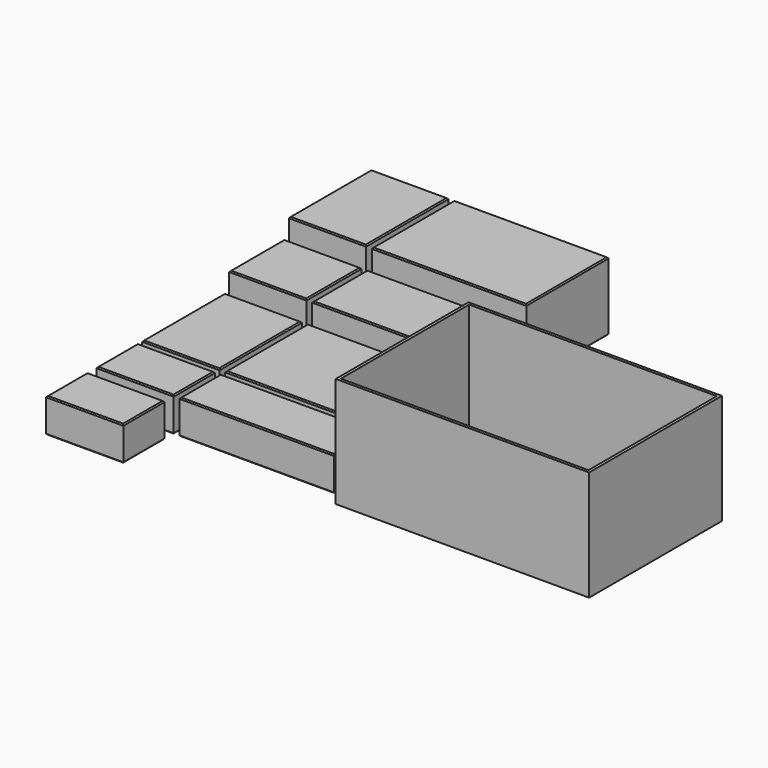
from build123d import *

# Parameters (mm, degrees)
F9_W       = 27
F9_H       = 18
F10_DEPTH  = 12
F9_H_2     = 36
F9_W_2     = 54
F9_H_3     = 24
F11_DEPTH  = 18
F12_DEPTH  = 24
F13_DEPTH  = 12
F14_SIZE   = 0.4
F14_2_SIZE = 0.4
F14_3_SIZE = 0.4
F14_4_SIZE = 0.4
F14_5_SIZE = 0.4
F14_6_SIZE = 0.4
F14_7_SIZE = 0.4
F14_8_SIZE = 0.4
F14_9_SIZE = 0.4
F9_W_3     = 86.54
F9_H_4     = 56.02
F15_DEPTH  = 37.5
F16_T      = 1


with BuildPart() as f10:
    # F9 (on Top) → F10 (new body)
    with BuildSketch(Plane.XY):
        with Locations((-13.5, 11)):
            Rectangle(F9_W, F9_H)
    extrude(amount=F10_DEPTH)

    # F14#7
    f14_7_edges = [f10.edges().sort_by_distance(p)[0] for p in [
        (-13.5, 20, 12),
        (-27, 11, 12),
        (-13.5, 2, 12),
        (0, 11, 12),
        (-13.5, 20, 0),
        (-27, 11, 0),
        (-13.5, 2, 0),
        (0, 11, 0),
    ]]
    chamfer(f14_7_edges, length=F14_7_SIZE)


with BuildPart() as f10b:
    # F9 (on Top) → F10, piece 2 (new body)
    with BuildSketch(Plane.XY):
        with Locations((-13.5, 40)):
            Rectangle(F9_W, F9_H_2)
    extrude(amount=F10_DEPTH)

    # F14#6
    f14_6_edges = [f10b.edges().sort_by_distance(p)[0] for p in [
        (-13.5, 58, 12),
        (-27, 40, 12),
        (-13.5, 22, 12),
        (0, 40, 12),
        (-13.5, 58, 0),
        (-27, 40, 0),
        (-13.5, 22, 0),
        (0, 40, 0),
    ]]
    chamfer(f14_6_edges, length=F14_6_SIZE)


with BuildPart() as f10c:
    # F9 (on Top) → F10, piece 3 (new body)
    with BuildSketch(Plane.XY):
        with Locations((29, 40)):
            Rectangle(F9_W_2, F9_H_2)
    extrude(amount=F10_DEPTH)

    # F14#5
    f14_5_edges = [f10c.edges().sort_by_distance(p)[0] for p in [
        (29, 58, 12),
        (2, 40, 12),
        (29, 22, 12),
        (56, 40, 12),
        (29, 58, 0),
        (2, 40, 0),
        (29, 22, 0),
        (56, 40, 0),
    ]]
    chamfer(f14_5_edges, length=F14_5_SIZE)


with BuildPart() as f10d:
    # F9 (on Top) → F10, piece 4 (new body)
    with BuildSketch(Plane.XY):
        with Locations((29, 11)):
            Rectangle(F9_W_2, F9_H)
    extrude(amount=F10_DEPTH)

    # F14#8
    f14_8_edges = [f10d.edges().sort_by_distance(p)[0] for p in [
        (29, 20, 12),
        (2, 11, 12),
        (29, 2, 12),
        (56, 11, 12),
        (29, 20, 0),
        (2, 11, 0),
        (29, 2, 0),
        (56, 11, 0),
    ]]
    chamfer(f14_8_edges, length=F14_8_SIZE)


with BuildPart() as f11:
    # F9 (on Top) → F11 (new body)
    with BuildSketch(Plane.XY):
        with Locations((-13.5, 72)):
            Rectangle(F9_W, F9_H_3)
    extrude(amount=F11_DEPTH)

    # F14#3
    f14_3_edges = [f11.edges().sort_by_distance(p)[0] for p in [
        (-13.5, 84, 18),
        (-27, 72, 18),
        (-13.5, 60, 18),
        (0, 72, 18),
        (-13.5, 84, 0),
        (-27, 72, 0),
        (-13.5, 60, 0),
        (0, 72, 0),
    ]]
    chamfer(f14_3_edges, length=F14_3_SIZE)


with BuildPart() as f11b:
    # F9 (on Top) → F11, piece 2 (new body)
    with BuildSketch(Plane.XY):
        with Locations((29, 72)):
            Rectangle(F9_W_2, F9_H_3)
    extrude(amount=F11_DEPTH)

    # F14#4
    f14_4_edges = [f11b.edges().sort_by_distance(p)[0] for p in [
        (29, 84, 18),
        (2, 72, 18),
        (29, 60, 18),
        (56, 72, 18),
        (29, 84, 0),
        (2, 72, 0),
        (29, 60, 0),
        (56, 72, 0),
    ]]
    chamfer(f14_4_edges, length=F14_4_SIZE)


with BuildPart() as f12:
    # F9 (on Top) → F12 (new body)
    with BuildSketch(Plane.XY):
        with Locations((-13.5, 104)):
            Rectangle(F9_W, F9_H_2)
    extrude(amount=F12_DEPTH)

    # F14
    f14_edges = [f12.edges().sort_by_distance(p)[0] for p in [
        (-13.5, 122, 24),
        (-27, 104, 24),
        (-13.5, 86, 24),
        (0, 104, 24),
        (-13.5, 122, 0),
        (-27, 104, 0),
        (-13.5, 86, 0),
        (0, 104, 0),
    ]]
    chamfer(f14_edges, length=F14_SIZE)


with BuildPart() as f12b:
    # F9 (on Top) → F12, piece 2 (new body)
    with BuildSketch(Plane.XY):
        with Locations((29, 104)):
            Rectangle(F9_W_2, F9_H_2)
    extrude(amount=F12_DEPTH)

    # F14#2
    f14_2_edges = [f12b.edges().sort_by_distance(p)[0] for p in [
        (29, 122, 24),
        (2, 104, 24),
        (29, 86, 24),
        (56, 104, 24),
        (29, 122, 0),
        (2, 104, 0),
        (29, 86, 0),
        (56, 104, 0),
    ]]
    chamfer(f14_2_edges, length=F14_2_SIZE)


with BuildPart() as f13:
    # F9 (on Top) → F13 (new body)
    with BuildSketch(Plane.XY):
        with Locations((-13.5, -11)):
            Rectangle(F9_W, F9_H)
    extrude(amount=F13_DEPTH)

    # F14#9
    f14_9_edges = [f13.edges().sort_by_distance(p)[0] for p in [
        (-13.5, -20, 12),
        (0, -11, 12),
        (-13.5, -2, 12),
        (-27, -11, 12),
        (-13.5, -20, 0),
        (0, -11, 0),
        (-13.5, -2, 0),
        (-27, -11, 0),
    ]]
    chamfer(f14_9_edges, length=F14_9_SIZE)


with BuildPart() as f15:
    # F9 (on Top) → F15 (new body)
    with BuildSketch(Plane.XY):
        with Locations((103.27, 28.01)):
            Rectangle(F9_W_3, F9_H_4)
    extrude(amount=F15_DEPTH)

    # F16
    f16_openings = [f15.faces().sort_by_distance(p)[0] for p in [
        (103.27, 28.01, 37.5),
    ]]
    offset(amount=F16_T, openings=f16_openings, kind=Kind.INTERSECTION)


solid = Compound([f10.part, f10b.part, f10c.part, f10d.part, f11.part, f11b.part, f12.part, f12b.part, f13.part, f15.part])
